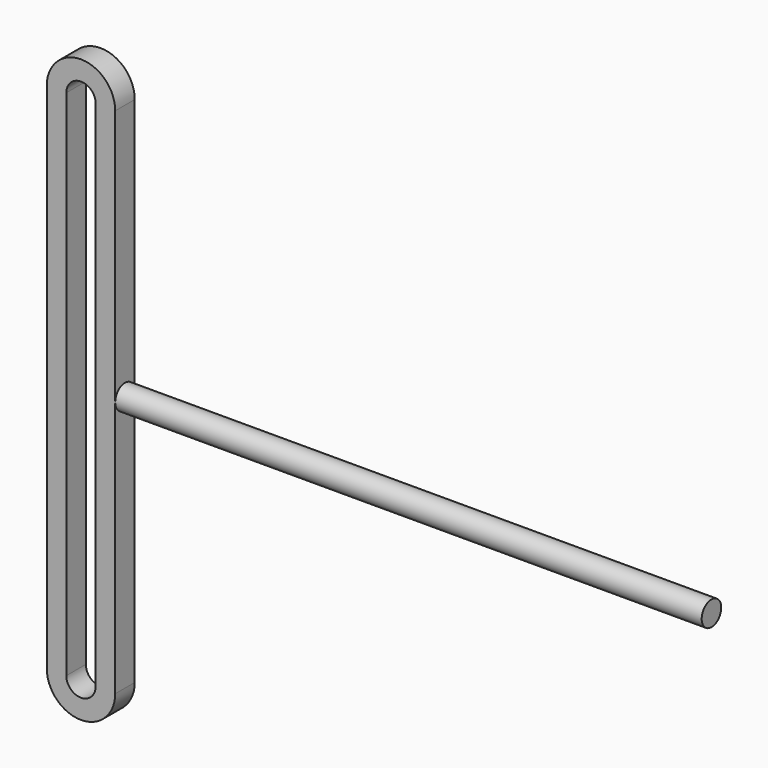
from build123d import *

# Parameters (mm, degrees)
F1_DEPTH = 5
F3_DEPTH = 240


with BuildPart() as f1:
    # F0 (on Front) → F1 (new body, symmetric)
    with BuildSketch(Plane.XZ):
        with BuildLine():
            Line((14, -105), (14, 105))
            ThreePointArc((14, 105), (0, 119), (-14, 105))
            Line((-14, 105), (-14, -105))
            ThreePointArc((-14, -105), (0, -119), (14, -105))
        make_face()
        with BuildLine():
            ThreePointArc((-6, 105), (0, 111), (6, 105))
            Line((6, 105), (6, -105))
            ThreePointArc((6, -105), (0, -111), (-6, -105))
            Line((-6, -105), (-6, 105))
        make_face(mode=Mode.SUBTRACT)
    extrude(amount=F1_DEPTH, both=True)

    # F2 (on face) → F3 (join)
    with BuildSketch(Plane.YZ.offset(14)):
        with BuildLine():
            ThreePointArc((-5, 0), (0, -5), (5, 0))
            ThreePointArc((5, 0), (0, 5), (-5, 0))
        make_face()
    extrude(amount=F3_DEPTH)


solid = f1.part
